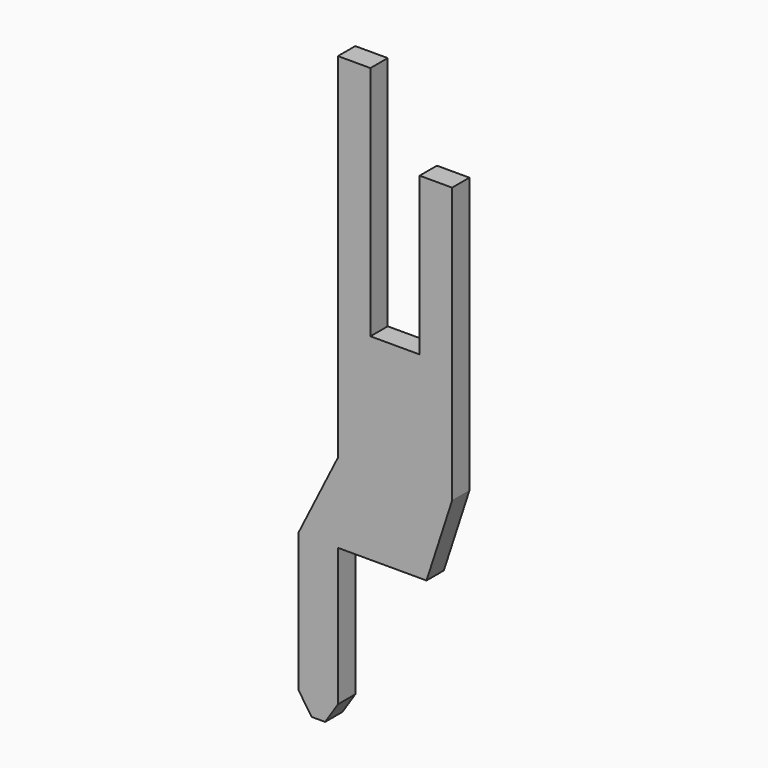
from build123d import *

# Parameters (mm, degrees)
BOX093_W         = 2.9
BOX093_H         = 0.55
BOX093_DEPTH     = 15
BOX094_W         = 1.25
BOX094_H         = 0.55
BOX094_DEPTH     = 6
BOX095_W         = 1.1
BOX095_H         = 0.6
BOX095_DEPTH     = 2
BOX096_W         = 1
BOX096_H         = 0.55
BOX096_DEPTH     = 6
BOX097_W         = 3
BOX097_H         = 0.55
BOX097_DEPTH     = 4
CHAMFER042_SIZE2 = 0.65
CHAMFER042_SIZE  = 2
CHAMFER043_ANGLE = 33
CHAMFER043_SIZE  = 0.5
CHAMFER044_ANGLE = 56
CHAMFER044_SIZE  = 0.33
CHAMFER045_ANGLE = 26.565
CHAMFER045_SIZE  = 1.98


with BuildPart() as part:
    # Box093 → Box093 (join)
    with BuildSketch(Plane(origin=(-4.95, -0.275, 0), x_dir=(1, 0, 0), z_dir=(0, 0, 1))):
        with Locations((1.45, 0.275)):
            Rectangle(BOX093_W, BOX093_H)
    extrude(amount=BOX093_DEPTH)

    # Box094 → Box094 (cut)
    with BuildSketch(Plane(origin=(-4.125, -0.275, 9), x_dir=(1, 0, 0), z_dir=(0, 0, 1))):
        with Locations((0.625, 0.275)):
            Rectangle(BOX094_W, BOX094_H)
    extrude(amount=BOX094_DEPTH, mode=Mode.SUBTRACT)

    # Box095 → Box095 (cut)
    with BuildSketch(Plane(origin=(-3, -0.3, 13), x_dir=(1, 0, 0), z_dir=(0, 0, 1))):
        with Locations((0.55, 0.3)):
            Rectangle(BOX095_W, BOX095_H)
    extrude(amount=BOX095_DEPTH, mode=Mode.SUBTRACT)

    # Box096 → Box096 (join)
    with BuildSketch(Plane(origin=(-5.95, -0.275, 0), x_dir=(1, 0, 0), z_dir=(0, 0, 1))):
        with Locations((0.5, 0.275)):
            Rectangle(BOX096_W, BOX096_H)
    extrude(amount=BOX096_DEPTH)

    # Box097 → Box097 (cut)
    with BuildSketch(Plane(origin=(-4.95, 0.275, 4), x_dir=(1, 0, 0), z_dir=(0, 0, -1))):
        with Locations((1.5, 0.275)):
            Rectangle(BOX097_W, BOX097_H)
    extrude(amount=BOX097_DEPTH, mode=Mode.SUBTRACT)

    # Chamfer042
    chamfer042_edges = [part.edges().sort_by_distance(p)[0] for p in [
        (-2.05, 0, 4),
    ]]
    chamfer042_side = part.faces().sort_by_distance((-2.05, 0, 8.5))[0]
    chamfer(chamfer042_edges, length=CHAMFER042_SIZE, length2=CHAMFER042_SIZE2, reference=chamfer042_side)

    # Chamfer043
    chamfer043_edges = [part.edges().sort_by_distance(p)[0] for p in [
        (-4.95, 0, 0),
    ]]
    chamfer043_side = part.faces().sort_by_distance((-4.95, 0, 2))[0]
    chamfer(chamfer043_edges, length=CHAMFER043_SIZE, angle=CHAMFER043_ANGLE, reference=chamfer043_side)

    # Chamfer044
    chamfer044_edges = [part.edges().sort_by_distance(p)[0] for p in [
        (-5.95, 0, 0),
    ]]
    chamfer044_side = part.faces().sort_by_distance((-5.612352, 0, 0))[0]
    chamfer(chamfer044_edges, length=CHAMFER044_SIZE, angle=CHAMFER044_ANGLE, reference=chamfer044_side)

    # Chamfer045
    chamfer045_edges = [part.edges().sort_by_distance(p)[0] for p in [
        (-5.95, 0, 6),
    ]]
    chamfer045_side = part.faces().sort_by_distance((-5.95, 0, 3.244623))[0]
    chamfer(chamfer045_edges, length=CHAMFER045_SIZE, angle=CHAMFER045_ANGLE, reference=chamfer045_side)


with BuildPart() as part_1:
    # Body033 placement: moved
    add(part.part.moved(Location((0, 0, -4))))


solid = part_1.part
